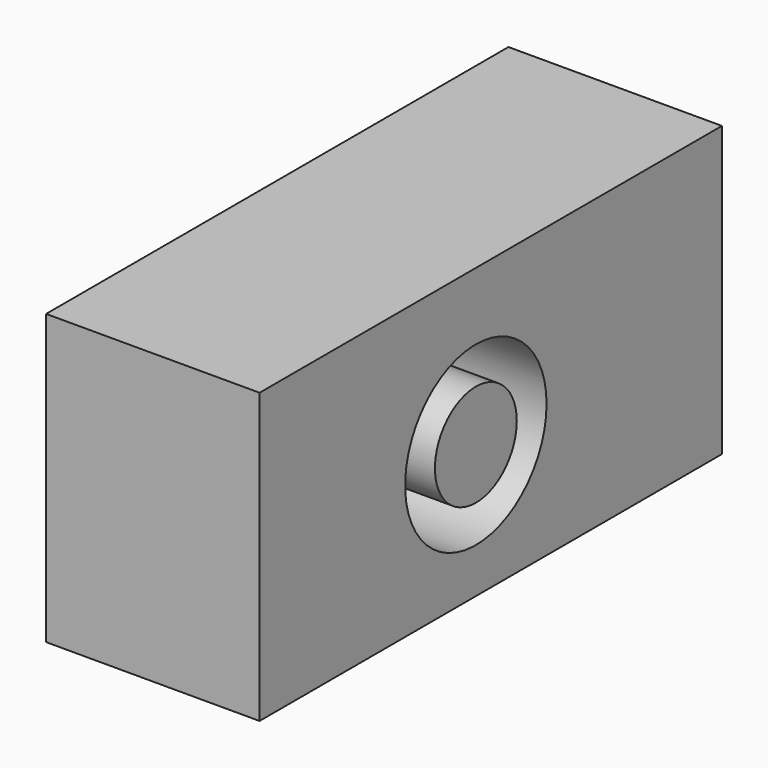
from build123d import *

# Parameters (mm, degrees)
F0_W     = 11.082272
F0_H     = 15
F1_DEPTH = 30
F2_R     = 4.588634
F2_R_2   = 2.655878
F3_DEPTH = 11.083273


with BuildPart() as f1:
    # F0 (on Front) → F1 (new body)
    with BuildSketch(Plane.XZ):
        with Locations((0, 4.290295)):
            Rectangle(F0_W, F0_H)
    extrude(amount=F1_DEPTH)

    # F2 (on face) → F3 (cut, through all)
    with BuildSketch(Plane.YZ.offset(5.541136)):
        with Locations((-15.967023, 3.711534)):
            Circle(F2_R)
        with Locations((-15.967023, 3.711534)):
            Circle(F2_R_2, mode=Mode.SUBTRACT)
    extrude(amount=-F3_DEPTH, mode=Mode.SUBTRACT)


solid = f1.part
